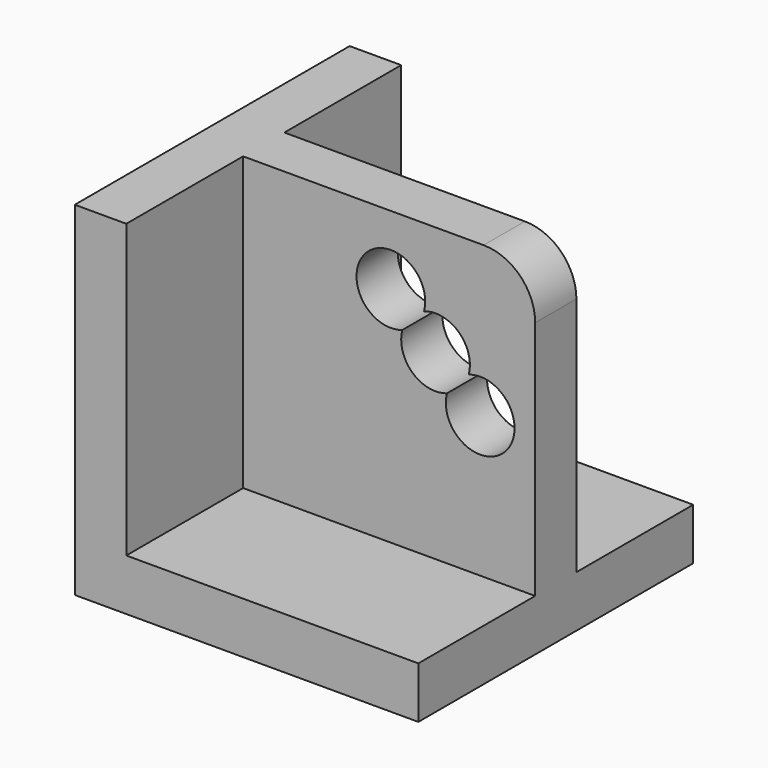
from build123d import *

# Parameters (mm, degrees)
F1_DEPTH = 127
F2_W     = 19.05
F2_H     = 107.95
F3_DEPTH = 107.95
F4_R     = 19.05
F6_DEPTH = 25.4


with BuildPart() as f1:
    # F0 (on Front) → F1 (new body)
    with BuildSketch(Plane.XZ):
        Polygon((0, 127), (0, 0), (127, 0), (127, 19.05), (19.05, 19.05), (19.05, 127), align=None)
    extrude(amount=F1_DEPTH)

    # F2 (on face) → F3 (join, through all)
    with BuildSketch(Plane.YZ.offset(19.05)):
        with Locations((-63.5, 73.025)):
            Rectangle(F2_W, F2_H)
    extrude(amount=F3_DEPTH)

    # F4
    f4_edges = [f1.edges().sort_by_distance(p)[0] for p in [
        (127, -63.5, 127),
    ]]
    fillet(f4_edges, radius=F4_R)

    # F5 (on face) → F6 (cut)
    with BuildSketch(Plane.XZ.offset(73.025)):
        with BuildLine():
            ThreePointArc((77.897624, 89.627843), (81.555843, 77.027996), (94.407624, 74.387843))
            ThreePointArc((94.407624, 74.387843), (116.012004, 62.505843), (102.442376, 83.092157))
            ThreePointArc((102.442376, 83.092157), (98.784157, 95.692004), (85.932376, 98.332157))
            ThreePointArc((85.932376, 98.332157), (64.327996, 110.214157), (77.897624, 89.627843))
        make_face()
    extrude(amount=-F6_DEPTH, mode=Mode.SUBTRACT)


solid = f1.part
